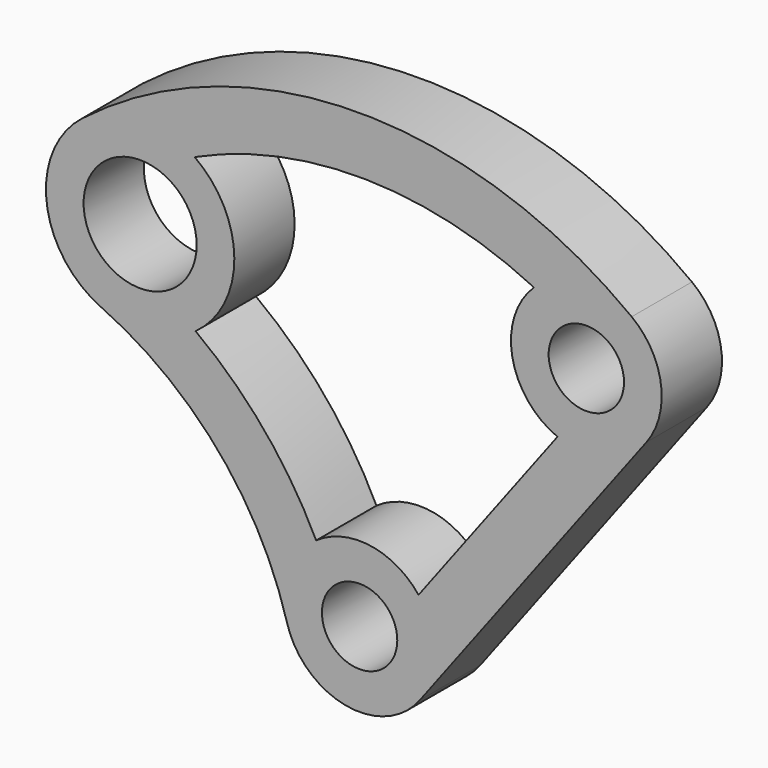
from build123d import *

# Parameters (mm, degrees)
F0_R     = 254
F0_R_2   = 381
F1_DEPTH = 508


with BuildPart() as f1:
    # F0 (on Front) → F1 (new body)
    with BuildSketch(Plane.XZ):
        with BuildLine():
            ThreePointArc((-1742.822261, 1328.459635), (-954.015045, 734.534806), (-489.273262, -136.658973))
            ThreePointArc((-489.273262, -136.658973), (-94.279582, -499.174679), (405.724875, -305.698096))
            Line((405.724875, -305.698096), (1934.215357, 1722.926276))
            ThreePointArc((1934.215357, 1722.926276), (2031.542489, 2099.353986), (1834.188579, 2434.349247))
            ThreePointArc((1834.188579, 2434.349247), (-21.763691, 3047.922299), (-1868.764722, 2407.908307))
            ThreePointArc((-1868.764722, 2407.908307), (-2110.160375, 1832.672589), (-1742.822261, 1328.459635))
        make_face()
        Circle(F0_R, mode=Mode.SUBTRACT)
        with Locations((-1479.438738, 1906.260743)):
            Circle(F0_R_2, mode=Mode.SUBTRACT)
        with BuildLine():
            Line((1333.930792, 1559.358428), (397.422128, 316.416896))
            ThreePointArc((397.422128, 316.416896), (71.938518, 502.880552), (-292.769256, 415.150771))
            ThreePointArc((-292.769256, 415.150771), (-640.048753, 953.214618), (-1105.582396, 1392.980668))
            ThreePointArc((-1105.582396, 1392.980668), (-844.450915, 1910.193246), (-1111.968354, 2424.131882))
            ThreePointArc((-1111.968354, 2424.131882), (35.172025, 2666.768068), (1175.514235, 2393.962256))
            ThreePointArc((1175.514235, 2393.962256), (1029.401524, 1933.892056), (1333.930792, 1559.358428))
        make_face(mode=Mode.SUBTRACT)
        with Locations((1528.490482, 2028.624373)):
            Circle(F0_R, mode=Mode.SUBTRACT)
    extrude(amount=F1_DEPTH)


solid = f1.part
